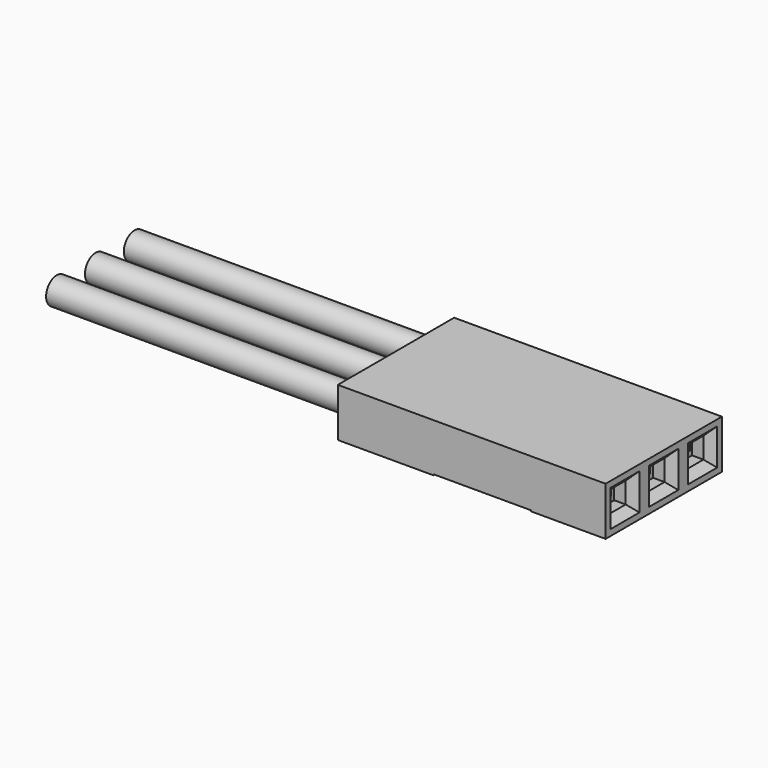
from build123d import *

# Parameters (mm, degrees)
CYLINDER_R        = 0.7
CYLINDER_DEPTH    = 20
CYLINDER001_R     = 0.7
CYLINDER001_DEPTH = 20
CYLINDER002_R     = 0.7
CYLINDER002_DEPTH = 20
PAD001_DEPTH      = 0.85
SKETCH023_W       = 0.9
SKETCH023_H       = 1.2
POCKET003_DEPTH   = 11.001
FILLET_R          = 0.2
SKETCH_W          = 14
SKETCH_H          = 7.6
PAD_DEPTH         = 1.27
SKETCH018_W       = 1.8
SKETCH018_H       = 2
POCKET_DEPTH      = 13
SKETCH019_W       = 5.1
SKETCH019_H       = 7.6
POCKET001_DEPTH   = 0.05
POCKET002_DEPTH   = 0.22
SKETCH021_W       = 1.1
SKETCH021_H       = 1.1
POCKET004_DEPTH   = 1
CHAMFER_SIZE      = 0.4
POCKET005_DEPTH   = 0.05


with BuildPart() as vcc_wire:
    # Cylinder → Cylinder (new body)
    with BuildSketch(Plane.ZY.offset(-4.3)):
        Circle(CYLINDER_R)
    extrude(amount=CYLINDER_DEPTH)


with BuildPart() as vcc_signal:
    # Cylinder001 → Cylinder001 (new body)
    with BuildSketch(Plane(origin=(4.3, 2.54, 0), x_dir=(0, 0, 1), z_dir=(-1, 0, 0))):
        Circle(CYLINDER001_R)
    extrude(amount=CYLINDER001_DEPTH)


with BuildPart() as wire_gnd:
    # Cylinder002 → Cylinder002 (new body)
    with BuildSketch(Plane(origin=(4.3, -2.54, 0), x_dir=(0, 0, 1), z_dir=(-1, 0, 0))):
        Circle(CYLINDER002_R)
    extrude(amount=CYLINDER002_DEPTH)


with BuildPart() as pin_fillet:
    # Sketch022 → Pad001 (new body, symmetric)
    with BuildSketch(Plane.XZ):
        Polygon((12.8, 0.75), (12.8, -0.75), (9.1, -0.75), (9.1, -1.3), (8.3, -1.3), (8.3, -0.75), (6.1, -0.15), (6.1, 0.05), (3, 0.05), (3, -0.85), (1.8, -0.85), (1.8, 0.75), align=None)
    extrude(amount=PAD001_DEPTH, both=True)

    # Sketch023 (on Face1 of Pad001) → Pocket003 (cut, through all)
    with BuildSketch(Plane(origin=(12.8, 0, 0), x_dir=(0, 0, 1), z_dir=(1, 0, 0))):
        Rectangle(SKETCH023_W, SKETCH023_H)
    extrude(amount=-POCKET003_DEPTH, mode=Mode.SUBTRACT)

    # Fillet
    fillet_edges = [pin_fillet.edges().sort_by_distance(p)[0] for p in [
        (7.3, -0.85, 0.75),
        (7.3, 0.85, 0.75),
        (10.95, -0.85, -0.75),
        (10.95, 0.85, -0.75),
        (2.4, -0.85, -0.85),
        (2.4, 0.85, -0.85),
    ]]
    fillet(fillet_edges, radius=FILLET_R)


with BuildPart() as pin1:
    # Clone base: copy of Pin-fillet
    add(pin_fillet.part)


with BuildPart() as pin2:
    # Clone001 base: copy of pin1
    add(pin1.part)


with BuildPart() as pin2_1:
    # Clone001 placement: moved
    add(pin2.part.moved(Location((0, 2.6, 0))))


with BuildPart() as pin3:
    # Clone002 base: copy of pin2
    add(pin2_1.part)


with BuildPart() as pin3_1:
    # Clone002 placement: moved
    add(pin3.part.moved(Location((0, -5.16, 0))))


with BuildPart() as connector_final:
    # Sketch → Pad (new body, symmetric)
    with BuildSketch(Plane.XY):
        with Locations((7, 0)):
            Rectangle(SKETCH_W, SKETCH_H)
    extrude(amount=PAD_DEPTH, both=True)

    # Sketch018 (on Face4 of Pad) → Pocket (cut)
    with BuildSketch(Plane(origin=(0, 0, 0), x_dir=(0, -1, 0), z_dir=(-1, 0, 0))):
        Rectangle(SKETCH018_W, SKETCH018_H)
        with Locations((-2.6, 0)):
            Rectangle(SKETCH018_W, SKETCH018_H)
        with Locations((2.6, 0)):
            Rectangle(SKETCH018_W, SKETCH018_H)
    extrude(amount=-POCKET_DEPTH, mode=Mode.SUBTRACT)

    # Sketch019 (on Face4 of Pocket) → Pocket001 (cut)
    with BuildSketch(Plane(origin=(0, 0, -1.27), x_dir=(1, 0, 0), z_dir=(0, 0, -1))):
        with Locations((7.55, 0)):
            Rectangle(SKETCH019_W, SKETCH019_H)
    extrude(amount=-POCKET001_DEPTH, mode=Mode.SUBTRACT)

    # Sketch020 (on Face4 of Pocket001) → Pocket002 (cut)
    with BuildSketch(Plane(origin=(0, 0, -1.22), x_dir=(1, 0, 0), z_dir=(0, 0, -1))):
        Polygon((10.1, 0.9), (5, 0.9), (5, 0.7), (8.3, 0.7), (8.3, -0.7), (5, -0.7), (5, -0.9), (10.1, -0.9), align=None)
        Polygon((10.1, 3.5), (5, 3.5), (5, 3.3), (8.3, 3.3), (8.3, 1.9), (5, 1.9), (5, 1.7), (10.1, 1.7), align=None)
        Polygon((10.1, -1.7), (5, -1.7), (5, -1.9), (8.3, -1.9), (8.3, -3.3), (5, -3.3), (5, -3.5), (10.1, -3.5), align=None)
    extrude(amount=-POCKET002_DEPTH, mode=Mode.SUBTRACT)

    # Sketch021 (on Face11 of Pocket002) → Pocket004 (cut)
    with BuildSketch(Plane.YZ.offset(14)):
        Rectangle(SKETCH021_W, SKETCH021_H)
        with Locations((-2.54, 0)):
            Rectangle(SKETCH021_W, SKETCH021_H)
        with Locations((2.54, 0)):
            Rectangle(SKETCH021_W, SKETCH021_H)
    extrude(amount=-POCKET004_DEPTH, mode=Mode.SUBTRACT)

    # Chamfer
    chamfer_edges = [connector_final.edges().sort_by_distance(p)[0] for p in [
        (14, -2.54, 0.55),
        (14, -2.54, -0.55),
        (14, -1.99, 0),
        (14, -3.09, 0),
        (14, -0.55, 0),
        (14, 0, 0.55),
        (14, 0.55, 0),
        (14, 0, -0.55),
        (14, 2.54, -0.55),
        (14, 2.54, 0.55),
        (14, 1.99, 0),
        (14, 3.09, 0),
    ]]
    chamfer(chamfer_edges, length=CHAMFER_SIZE)

    # Sketch024 (on Face7 of Chamfer) → Pocket005 (cut)
    with BuildSketch(Plane(origin=(0, 0, -1.27), x_dir=(1, 0, 0), z_dir=(0, 0, -1))):
        Polygon((10.5, 3.15), (10.5, 2.05), (12.1, 2.6), align=None)
    extrude(amount=-POCKET005_DEPTH, mode=Mode.SUBTRACT)


with BuildPart() as connector:
    # Clone003 base: copy of Connector-final
    add(connector_final.part)


solid = Compound([vcc_wire.part, vcc_signal.part, wire_gnd.part, pin_fillet.part, pin1.part, pin2_1.part, pin3_1.part, connector_final.part, connector.part])
